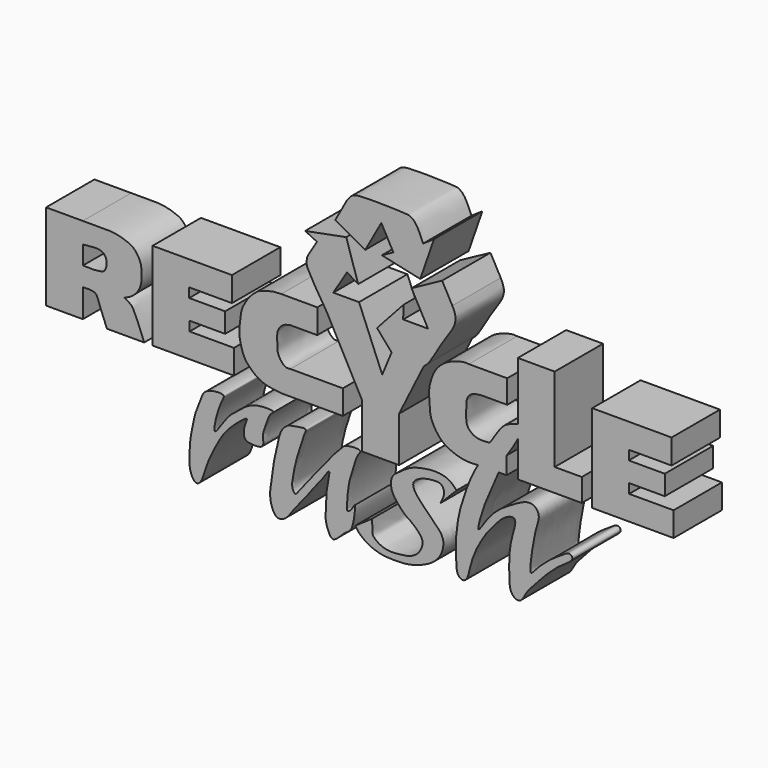
from build123d import *

# Parameters (mm, degrees)
F1_DEPTH = 12.7


with BuildPart() as f1:
    # F0 (on Front) → F1 (new body)
    with BuildSketch(Plane.XZ):
        Polygon((-26.9278750282, 9.2782713473), (-43.6087921262, 9.2782713473), (-43.6087921262, -9.190261364), (-26.5081487596, -9.190261364), (-26.5081487596, -4.0526706725), (-35.8437818002, -4.0526706725), (-35.8437818002, -2.0612897351), (-28.36053227, -2.0612897351), (-28.36053227, 2.1079152357), (-35.9194685232, 2.1079152357), (-35.9194685232, 4.087606445), (-26.9278750282, 4.087606445), align=None)
    extrude(amount=F1_DEPTH)


with BuildPart() as f1b:
    # F0 (on Front) → F1, piece 2 (new body)
    with BuildSketch(Plane.XZ):
        with BuildLine():
            Line((-58.2731589675, 9.1069694608), (-65.9919604659, 9.1069694608))
            Line((-65.9919604659, 9.1069694608), (-65.9919604659, -9.0740351006))
            Line((-65.9919604659, -9.0740351006), (-58.2731589675, -9.0740351006))
            Line((-58.2731589675, -9.0740351006), (-58.2731589675, -3.1306317542))
            add(Edge.make_bspline(
                [(-54.5248873532, -5.8785914007), (-54.6838654839, -5.4397872787), (-54.9681546648, -4.6497914453), (-55.3305996597, -3.6164633033), (-56.0962209858, -3.0514271538), (-57.9293205902, -3.13915904), (-58.1576071846, -3.1330562007), (-58.2731589675, -3.1306317542)],
                knots=[0, 0, 0, 0, 0.2294514135, 0.4304624443, 0.6201539225, 0.8822647734, 1, 1, 1, 1], degree=3))
            Line((-54.5248873532, -5.8785914007), (-53.1989522278, -9.190261364))
            Line((-53.1989522278, -9.190261364), (-45.3727133572, -9.190261364))
            add(Edge.make_bspline(
                [(-49.6130697429, -2.2117814515), (-49.3736132617, -2.3424662241), (-48.8488736843, -2.6288459119), (-47.7858917356, -3.2751992441), (-47.1884377951, -4.8326762277), (-46.6268102058, -5.9273688429), (-45.8562732705, -7.9321416053), (-45.3727133572, -9.190261364)],
                knots=[0, 0, 0, 0, 0.1472735484, 0.3227319601, 0.5223162278, 0.7002236845, 1, 1, 1, 1], degree=3))
            add(Edge.make_bspline(
                [(-58.2731589675, 9.1069694608), (-56.2497803602, 9.1416673875), (-53.0546006455, 9.1977156493), (-50.8153730763, 8.9017479082), (-49.137239588, 8.4082245927), (-47.5324084612, 7.6864851592), (-46.6602420002, 6.4238333815), (-46.0465078746, 5.2830417793), (-45.9028881051, 3.6615642724), (-45.8655000768, 1.9874840167), (-46.2720611316, 0.4922370379), (-47.0557849343, -0.7603331282), (-48.4619510238, -1.8691503701), (-49.2543091064, -2.1049961651), (-49.6130697429, -2.2117814515)],
                knots=[0, 0, 0, 0, 0.1432222724, 0.2343174883, 0.3149146435, 0.3960344768, 0.4713487423, 0.5411362367, 0.6193904027, 0.6999083334, 0.7758414895, 0.8509935571, 0.9327713027, 1, 1, 1, 1], degree=3))
        make_face()
        with BuildLine():
            Line((-58.2731589675, 0.8476539515), (-58.2731589675, 4.7685788013))
            add(Edge.make_bspline(
                [(-58.2731589675, 4.7685788013), (-56.77226392, 4.9395339249), (-54.549518334, 5.2000396105), (-53.5055532001, 4.1478575435), (-53.1660081582, 3.097578326), (-53.3808542891, 1.8005398915), (-53.8919350459, 1.1144048052), (-54.5607117155, 0.9988144803), (-55.7303800315, 0.7814648085), (-57.4208571728, 0.9013254997), (-57.9833102091, 0.8607637259), (-58.2731589675, 0.8476539515)],
                knots=[0, 0, 0, 0, 0.1899077358, 0.2979261193, 0.3988837997, 0.5102466253, 0.5968124373, 0.6737173386, 0.7818004159, 0.9092295265, 1, 1, 1, 1], degree=3))
        make_face(mode=Mode.SUBTRACT)
    extrude(amount=F1_DEPTH)


with BuildPart() as f1c:
    # F0 (on Front) → F1, piece 3 (new body)
    with BuildSketch(Plane.XZ):
        with BuildLine():
            Line((40.8935211599, 13.4809007868), (33.1436395645, 13.4809007868))
            Line((33.1436395645, 13.4809007868), (33.1436395645, 1.218572841))
            add(Edge.make_bspline(
                [(33.1436395645, 1.218572841), (32.5466785362, 1.0489908565), (31.4268339041, 0.7308704666), (30.1444097503, 0.0705674644), (28.9382116158, -1.5266554281), (27.8737923092, -3.1729353672), (27.2767134011, -4.096405115)],
                knots=[0, 0, 0, 0, 0.2360215646, 0.4427550034, 0.6874171371, 1, 1, 1, 1], degree=3))
            add(Edge.make_bspline(
                [(27.2767134011, -4.096405115), (26.3530575329, -4.2162345025), (24.5428682134, -4.4510772453), (22.1269336734, -2.7357522591), (22.3810558801, -0.0013024107), (22.1734587519, 2.2977655078), (23.4379943973, 4.0006982671), (25.207643928, 4.0561213427), (26.1821504682, 4.0866415948)],
                knots=[0, 0, 0, 0, 0.176979589, 0.3468462366, 0.5192032031, 0.68135194, 0.824527618, 1, 1, 1, 1], degree=3))
            Line((26.1821504682, 4.0866415948), (30.9081878513, 4.0866415948))
            Line((30.9081878513, 4.0866415948), (30.9081878513, 8.9997015893))
            Line((30.9081878513, 8.9997015893), (22.8371787816, 8.9997015893))
            add(Edge.make_bspline(
                [(22.8371787816, 8.9997015893), (22.4936633184, 9.0394780012), (21.6100760365, 9.1074047535), (19.0979574244, 8.3265873018), (17.4076729284, 7.4013778803), (15.6647866601, 5.6533214852), (14.9038863704, 3.4698560173), (14.3879197766, 1.7518157776), (14.6040890851, -1.6144634128), (14.8249928767, -3.8758016731), (16.5130124108, -6.5700014057), (18.2160568594, -7.9155021051), (21.6196103476, -9.272055244), (23.7463993819, -9.144637603), (24.7681643814, -9.0580126271)],
                knots=[0, 0, 0, 0, 0.0581198804, 0.1437818255, 0.2194459142, 0.3020095382, 0.3819723958, 0.4541234114, 0.5506090009, 0.63317495, 0.7252167714, 0.8047505453, 0.9049619602, 1, 1, 1, 1], degree=3))
            add(Edge.make_bspline(
                [(29.1254017502, -8.9877257124), (28.6208144814, -10.1529887312), (27.5636387168, -12.5943658709), (25.9885658049, -15.9790443232), (24.0011337063, -23.0928761799), (27.4011266973, -16.7583097578), (31.8332639807, -14.1291282877), (35.0143389911, -12.2747422606), (36.9704017217, -12.7374882346), (37.8375325261, -14.4301508805), (36.9254876604, -16.7899630902), (36.3617458929, -19.7757097481), (35.3426466405, -26.3546004724), (36.8499222033, -24.4428891657), (38.2304382528, -23.0434906779), (40.319654819, -21.2654893252), (42.6903489508, -19.8240070142), (43.8323148593, -18.9978006012), (44.806622791, -19.6326365403), (44.2834217575, -20.7131429661), (41.9703996668, -21.9672657534), (40.0524430379, -23.823065004), (38.6722826706, -25.0664083666), (36.9185472061, -27.1023832444), (34.8589001363, -29.172256096), (33.7760002733, -31.8534577499), (31.3921158193, -30.7037844349), (31.3325764224, -26.9585009705), (31.2845776148, -23.4175026262), (31.829973306, -20.0742468889), (32.7027397985, -17.5850164856), (32.5606736177, -16.2972264802), (31.3623633306, -16.3340699578), (29.6893500139, -17.3243618654), (28.18419529, -19.1238881926), (26.5214264964, -21.0382281327), (25.1062946125, -23.405390395), (24.1353705559, -25.2883160927), (23.0938067238, -28.1319053414), (22.7057159536, -30.7616797956), (21.6827820814, -31.5896850948), (20.292801106, -30.8841160943), (20.1678329191, -27.9665111853), (19.9925848919, -24.7144933901), (20.619109076, -19.7927179374), (21.329270578, -17.3554320528), (22.5208248266, -13.6514246898), (23.6825515277, -10.9931889473), (24.4259980912, -9.6679465461), (24.7681643814, -9.0580126271)],
                knots=[0, 0, 0, 0, 0.025776717, 0.054005565, 0.0819947482, 0.1089102392, 0.1413478438, 0.1660276159, 0.1832557271, 0.2000974991, 0.2200497677, 0.2458387748, 0.2757576209, 0.2894503109, 0.309086475, 0.3313005693, 0.3536906798, 0.3686403757, 0.380519579, 0.3930923567, 0.4147663268, 0.4366442576, 0.4546790512, 0.4762201563, 0.4996449503, 0.5201094961, 0.5374892571, 0.5625043137, 0.5881097505, 0.6127029471, 0.6343275376, 0.6474418695, 0.660108153, 0.6785449756, 0.698978949, 0.7203250388, 0.7421722406, 0.7615913868, 0.7849151236, 0.8064665729, 0.8199000629, 0.8341811531, 0.8558924139, 0.8808733283, 0.9100157037, 0.9317043586, 0.9576080339, 0.9804893822, 1, 1, 1, 1], degree=3))
            Line((29.1254017502, -8.9877257124), (30.7815168053, -8.9877257124))
            Line((30.7815168053, -8.9877257124), (30.7815168053, -5.3288638592))
            add(Edge.make_bspline(
                [(30.7815168053, -5.3288638592), (31.0220658623, -4.9731777549), (31.5184506592, -4.2392020046), (32.3576276224, -3.0224240417), (32.8751857858, -2.0304661735), (33.1436395645, -1.5159446048)],
                knots=[0, 0, 0, 0, 0.3115545938, 0.6429082104, 1, 1, 1, 1], degree=3))
            Line((33.1436395645, -1.5159446048), (33.1436395645, -8.9765209705))
            Line((33.1436395645, -8.9765209705), (40.8935211599, -8.9765209705))
            Line((40.8935211599, -8.9765209705), (46.5955138206, -8.9765209705))
            Line((46.5955138206, -8.9765209705), (46.5955138206, -4.1689644568))
            Line((46.5955138206, -4.1689644568), (40.8935211599, -4.1689644568))
            Line((40.8935211599, -4.1689644568), (40.8935211599, 13.4809007868))
        make_face()
    extrude(amount=F1_DEPTH)


with BuildPart() as f1d:
    # F0 (on Front) → F1, piece 4 (new body)
    with BuildSketch(Plane.XZ):
        Polygon((65.4580801267, 9.2782713473), (48.7771630287, 9.2782713473), (48.7771630287, -9.190261364), (65.8778063953, -9.190261364), (65.8778063953, -4.0526706725), (56.5421733547, -4.0526706725), (56.5421733547, -2.0612897351), (64.0254228849, -2.0612897351), (64.0254228849, 2.1079152357), (56.4664866317, 2.1079152357), (56.4664866317, 4.087606445), (65.4580801267, 4.087606445), align=None)
    extrude(amount=F1_DEPTH)


with BuildPart() as f1e:
    # F0 (on Front) → F1, piece 5 (new body)
    with BuildSketch(Plane.XZ):
        with BuildLine():
            Line((0.3801406128, -4.9288212322), (0.3801406128, -14.4580192864))
            Line((0.3801406128, -14.4580192864), (8.2013271749, -14.4580192864))
            Line((8.2013271749, -14.4580192864), (8.2013271749, -4.9288212322))
            Line((8.2013271749, -4.9288212322), (13.4005136788, 5.5518089794))
            add(Edge.make_bspline(
                [(19.3848310759, 18.6797095057), (19.6309939458, 18.1752001123), (20.1472851527, 17.1170642377), (20.0150482893, 14.8595255206), (17.0535769591, 11.1087360329), (14.7155868524, 6.5703489131), (13.7421109499, 5.8163801598), (13.4005136788, 5.5518089794)],
                knots=[0, 0, 0, 0, 0.1535014432, 0.3219471946, 0.5849663029, 0.8543627243, 1, 1, 1, 1], degree=3))
            Line((19.3848310759, 18.6797095057), (17.2420330406, 22.6200734056))
            Line((17.2420330406, 22.6200734056), (10.8098145574, 19.1221870482))
            Line((10.8098145574, 19.1221870482), (14.2656611279, 12.7672749915))
            Line((14.2656611279, 12.7672749915), (9.0523620655, 12.7672749915))
            Line((9.0523620655, 12.7672749915), (9.1198421074, 15.518184207))
            Line((9.1198421074, 15.518184207), (3.5565192677, 9.4096086344))
            Line((3.5565192677, 9.4096086344), (6.622190281, 5.8630408743))
            Line((6.622190281, 5.8630408743), (4.6452740207, 1.1421593372))
            Line((4.6452740207, 1.1421593372), (-0.2263620554, 12.9588628599))
            Line((-0.2263620554, 12.9588628599), (-5.6311009611, 12.9588628599))
            Line((-5.6311009611, 12.9588628599), (-2.7565250639, 17.6672153175))
            Line((-2.7565250639, 17.6672153175), (-0.4079078208, 16.2333212793))
            Line((-0.4079078208, 16.2333212793), (-2.9164280277, 24.1055879742))
            Line((-2.9164280277, 24.1055879742), (-11.5520181134, 22.4519651383))
            Line((-11.5520181134, 22.4519651383), (-9.0715829283, 21.2576817721))
            Line((-9.0715829283, 21.2576817721), (-10.6587186456, 18.6108853668))
            add(Edge.make_bspline(
                [(-10.6587186456, 18.6108853668), (-10.8147722543, 18.3797235606), (-11.1615606022, 17.8639509714), (-11.3433590335, 16.3371282844), (-10.6043719876, 14.8090099949), (-8.5230505076, 11.2484172048), (-6.9248867221, 8.8133104146)],
                knots=[0, 0, 0, 0, 0.1551000155, 0.3492496975, 0.5561631296, 1, 1, 1, 1], degree=3))
            Line((-6.9248867221, 8.8133104146), (0.3801406128, -4.9288212322))
        make_face()
    extrude(amount=F1_DEPTH)


with BuildPart() as f1f:
    # F0 (on Front) → F1, piece 6 (new body)
    with BuildSketch(Plane.XZ):
        with BuildLine():
            Line((15.5296623707, 29.7356434166), (13.2551650437, 28.184665217))
            add(Edge.make_bspline(
                [(-2.790787418, 30.9150753843), (-2.496588708, 31.3123245256), (-1.8515528632, 32.1833002533), (-0.2908128035, 32.9461510293), (10.1418781992, 32.537210569), (10.3304179291, 32.4336514487), (11.201667319, 31.9950513141), (12.0860898228, 30.8998431536), (12.8194292526, 29.1966618661), (13.2551650437, 28.184665217)],
                knots=[0, 0, 0, 0, 0.1169250092, 0.2563601388, 0.5699475068, 0.6227074127, 0.7114383811, 0.828542391, 1, 1, 1, 1], degree=3))
            Line((-2.790787418, 30.9150753843), (-5.2094183719, 26.5465428136))
            Line((-5.2094183719, 26.5465428136), (1.0876579925, 23.0601767244))
            Line((1.0876579925, 23.0601767244), (4.4593526179, 29.1501334271))
            Line((4.4593526179, 29.1501334271), (6.9882009503, 24.5108979073))
            Line((6.9882009503, 24.5108979073), (4.5721036653, 23.1938827301))
            Line((4.5721036653, 23.1938827301), (12.6439467119, 21.4301916078))
            Line((12.6439467119, 21.4301916078), (15.5296623707, 29.7356434166))
        make_face()
    extrude(amount=F1_DEPTH)


with BuildPart() as f1g:
    # F0 (on Front) → F1, piece 7 (new body)
    with BuildSketch(Plane.XZ):
        with BuildLine():
            Line((-14.7536704317, 4.0003703907), (-8.9914333075, 4.0003703907))
            Line((-8.9914333075, 4.0003703907), (-8.9914333075, 9.1467956081))
            Line((-8.9914333075, 9.1467956081), (-16.5571179241, 9.1467956081))
            add(Edge.make_bspline(
                [(-16.5571179241, 9.1467956081), (-17.1530401884, 9.1407716115), (-18.3263062345, 9.1289114225), (-19.8808743664, 8.5934763593), (-21.2444041104, 8.2320572477), (-22.0630603893, 7.5989320728), (-23.3265495911, 6.4616200261), (-24.198181606, 5.0174946063), (-24.9647649929, 3.6448981414), (-25.1339874175, 1.8134624027), (-25.3466170212, 0.6242407268), (-25.4482736465, -1.1184772781), (-25.0910840112, -3.076429103), (-24.3734188164, -5.2949402618), (-23.0396838513, -6.7617659979), (-20.7302518977, -8.7695000671), (-17.9953199541, -9.0531968877), (-16.4945870638, -9.208869189)],
                knots=[0, 0, 0, 0, 0.0649093056, 0.1277949977, 0.1847633476, 0.2340103777, 0.2971170977, 0.3608268321, 0.4221661064, 0.4873227315, 0.5414568943, 0.6047290739, 0.6744972975, 0.7479897095, 0.8161445639, 0.8991134311, 1, 1, 1, 1], degree=3))
            Line((-16.4945870638, -9.208869189), (-3.6250751, -9.208869189))
            Line((-3.6250751, -9.208869189), (-3.6250751, -4.093918018))
            Line((-3.6250751, -4.093918018), (-14.6346036345, -4.093918018))
            add(Edge.make_bspline(
                [(-14.6346036345, -4.093918018), (-14.9353059918, -4.1390914664), (-15.580711865, -4.236048501), (-16.5345459018, -3.413227644), (-17.2479246562, -2.32166651), (-17.45001567, -1.0633366904), (-17.3582825652, 0.4898492243), (-17.4947125348, 1.8504010345), (-16.8985350679, 2.9059413864), (-16.0961165748, 3.701842322), (-15.2176263792, 3.8971976313), (-14.7536704317, 4.0003703907)],
                knots=[0, 0, 0, 0, 0.0948177996, 0.2035100931, 0.3175368644, 0.4296784084, 0.5551151929, 0.6714732038, 0.7787158468, 0.8831334721, 1, 1, 1, 1], degree=3))
        make_face()
    extrude(amount=F1_DEPTH)


with BuildPart() as f1h:
    # F0 (on Front) → F1, piece 8 (new body)
    with BuildSketch(Plane.XZ):
        with BuildLine():
            add(Edge.make_bspline(
                [(2.4345903657, -26.2884907424), (2.5046920226, -26.7876400006), (2.6408561315, -27.7273275827), (2.4180726246, -29.1515548789), (3.6678290349, -30.2633220176), (5.6616031522, -31.1904221814), (8.664988037, -30.9173990979), (10.7719144279, -30.5773850883), (12.5122750455, -29.3449579691), (13.3154712169, -27.4075976985), (12.8580710624, -25.8326131276), (10.2579553972, -23.6815795715), (9.5204098402, -23.4114422534), (7.7977930608, -21.5656021719), (6.384939465, -19.6284896062), (6.4597877079, -16.8892827072), (8.236004634, -15.7406879513), (10.2899994217, -14.1392835625), (13.1147731856, -13.3620384645), (15.9219332333, -13.0363169635), (18.581595578, -13.4761007626), (19.7260430876, -14.6264211006), (20.2917829156, -15.1953855529)],
                knots=[0, 0, 0, 0, 0.041520993, 0.0806616994, 0.1223354087, 0.1729179903, 0.2319528111, 0.2821184312, 0.3308585507, 0.3781399617, 0.4213776476, 0.4824829274, 0.5142384791, 0.5666240309, 0.6209100988, 0.67359836, 0.7215192471, 0.7765727816, 0.8349332589, 0.8927336549, 0.9474840742, 1, 1, 1, 1], degree=3))
            Line((2.4345903657, -26.2884907424), (-1.0150948074, -28.6559220403))
            add(Edge.make_bspline(
                [(-1.0150948074, -28.6559220403), (-0.7084285321, -29.0986590421), (-0.060084932, -30.0347291757), (1.6956082911, -31.2622141247), (4.1858063052, -32.2810686818), (7.4686738732, -32.4287884509), (10.5437058222, -32.2650452311), (13.6285909594, -31.1685815764), (15.805559936, -29.8927697637), (17.3133080701, -27.8589472829), (17.8162518662, -24.9223879684), (15.7547677399, -22.8102822481), (14.055553279, -21.1961552168), (12.5849791368, -19.6184340777), (11.3393636836, -18.1587140989), (10.8697510786, -16.3119203669), (13.4485793663, -15.1053807468), (15.3303610381, -14.9077697163), (17.1319713435, -14.8556533565), (17.9795806375, -16.6381717838), (17.240008217, -17.9519960274), (16.9097390026, -18.6450704932)],
                knots=[0, 0, 0, 0, 0.0444413266, 0.0945656823, 0.1513726494, 0.2140549746, 0.2754269102, 0.3377890457, 0.3924956522, 0.446902736, 0.503923873, 0.5616173343, 0.6154151564, 0.6662627639, 0.7145780633, 0.7570280842, 0.8114885007, 0.861297573, 0.9048749277, 0.948199988, 1, 1, 1, 1], degree=3))
            Line((16.9097390026, -18.6450704932), (20.2917829156, -15.1953855529))
        make_face()
    extrude(amount=F1_DEPTH)


with BuildPart() as f1i:
    # F0 (on Front) → F1, piece 9 (new body)
    with BuildSketch(Plane.XZ):
        with BuildLine():
            add(Edge.make_bspline(
                [(-28.7207718939, -13.5646434501), (-29.0391903517, -13.247473218), (-31.5566513325, -13.3812228507), (-33.0440657401, -14.4057343627), (-33.5242779145, -16.1193358149), (-34.537039935, -18.1629558266), (-35.1370355266, -21.0486087269), (-35.8256121209, -24.3251299675), (-35.8490034679, -27.2899393509), (-35.887172855, -29.6803920284), (-34.7912749069, -31.8985113628), (-33.2545690534, -31.3396126671), (-32.3986512985, -27.6649134795), (-30.7981609486, -24.3446852525), (-29.0848261336, -21.083099799), (-27.0734704819, -18.7317408524), (-24.8448737297, -16.8364582823), (-23.398471097, -15.883955795), (-24.6192510295, -18.2253721731), (-24.355832903, -20.3729827326), (-23.0969607669, -20.6900764995), (-19.8820079789, -20.8108972785), (-20.6835391518, -18.2296289845), (-19.7811097509, -16.2847523857), (-19.0622468755, -13.6751657289), (-17.3910685067, -12.9709937391), (-22.6931091461, -12.7116673451), (-25.6417979151, -15.5343046144), (-27.8688326128, -16.9169305377), (-31.0348730398, -22.3720557627), (-30.3178434457, -17.9107950717), (-29.1807023034, -14.8300525691), (-28.5163109654, -13.7683028754), (-28.7207718939, -13.5646434501)],
                knots=[0, 0, 0, 0, 0.0332772776, 0.0612687468, 0.087618743, 0.1185414685, 0.1539759641, 0.1918404846, 0.2271537776, 0.2596388674, 0.2891154382, 0.3100374292, 0.3489808528, 0.3897398501, 0.4287866886, 0.4653425248, 0.501608592, 0.5208810087, 0.5492743599, 0.5786380577, 0.6011984588, 0.6337726102, 0.6621408138, 0.6933448067, 0.7272930615, 0.7449908867, 0.7854088888, 0.8275478439, 0.8637817436, 0.9056805162, 0.9377380421, 0.9786321964, 1, 1, 1, 1], degree=3))
        make_face()
    extrude(amount=F1_DEPTH)


with BuildPart() as f1j:
    # F0 (on Front) → F1, piece 10 (new body)
    with BuildSketch(Plane.XZ):
        with BuildLine():
            add(Edge.make_bspline(
                [(-11.4436866716, -14.2671279609), (-11.6948368966, -13.984629317), (-14.0370099808, -14.4865915589), (-15.1785068482, -14.5823607411), (-16.8454054283, -16.1311277918), (-17.2899208334, -18.9247469506), (-17.9675805971, -21.3437181272), (-18.3690511044, -23.9589988431), (-18.7189038372, -26.2591569537), (-19.0410328581, -29.0041044873), (-18.5915948722, -30.9947347903), (-17.555229554, -32.8642938405), (-15.6101790585, -32.2697264673), (-14.4196170092, -30.5087740604), (-13.0725789839, -28.70938083), (-10.8990871621, -26.1858292535), (-9.1845833699, -23.6351669986), (-7.6758970334, -22.0402005007), (-6.2669289559, -19.6351201607), (-6.6621617668, -22.1804782837), (-7.1059212783, -24.0672630283), (-7.2032331272, -27.2937110743), (-7.3681668161, -29.5541182969), (-6.7104836511, -31.6016124871), (-5.6006579065, -33.4495000588), (-3.2168725262, -30.3545801416), (-1.4273343594, -30.0646144925), (-0.8299137313, -23.984184577), (-1.5848000686, -25.712782799), (-2.9519709529, -27.0981953663), (-2.6720562716, -24.1085859666), (-2.4032714491, -20.9080228303), (-1.4692659383, -18.5847197853), (-0.834646266, -15.5882817653), (0.7668438926, -14.1085607492), (-2.963271557, -14.2989503945), (-3.7605735961, -15.0621139531), (-5.3236636565, -16.6169935595), (-7.9038680063, -20.0217545134), (-12.5601103866, -25.4670644759), (-13.5770606605, -27.2373502803), (-14.4163067729, -25.9436404132), (-14.1529540556, -23.9123908141), (-13.4839703221, -20.4931572988), (-12.5054000929, -17.68418607), (-11.8426221561, -15.6353874309), (-11.6925219929, -15.0802577633), (-11.302129483, -14.4263542319), (-11.4436866716, -14.2671279609)],
                knots=[0, 0, 0, 0, 0.0225692763, 0.0395813929, 0.0600329623, 0.0844119104, 0.1077276444, 0.1311278442, 0.1535624707, 0.1774828196, 0.1985939981, 0.2180282269, 0.2364640804, 0.2574686233, 0.279410528, 0.3060216548, 0.3314262964, 0.3544807236, 0.3733198073, 0.3909824381, 0.4129928215, 0.4387872928, 0.4608705102, 0.4824600621, 0.4995911898, 0.5249232935, 0.5457304666, 0.5762797158, 0.5893249384, 0.6058281442, 0.6264659468, 0.6537163725, 0.6769895145, 0.7028620438, 0.7184480979, 0.7424154436, 0.7585546876, 0.7787475276, 0.8098559644, 0.8495718854, 0.866663629, 0.8809113061, 0.9018091509, 0.9291485299, 0.95499364, 0.9755274298, 0.9872791541, 1, 1, 1, 1], degree=3))
        make_face()
    extrude(amount=F1_DEPTH)


solid = Compound([f1.part, f1b.part, f1c.part, f1d.part, f1e.part, f1f.part, f1g.part, f1h.part, f1i.part, f1j.part])
